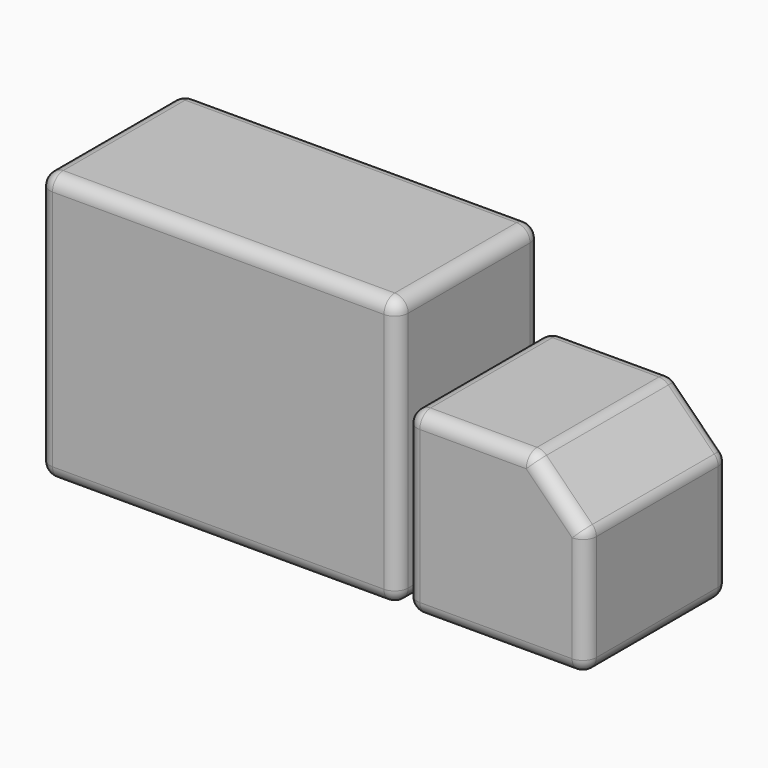
from build123d import *

# Parameters (mm, degrees)
BOX004_W               = 40
BOX004_H               = 40
BOX004_DEPTH           = 40
BOX004_PLACEMENT_ANGLE = 45
BOX003_W               = 40
BOX003_H               = 40
BOX003_DEPTH           = 40
FILLET002_R            = 3
BOX002_W               = 80
BOX002_H               = 40
BOX002_DEPTH           = 60
FILLET001_R            = 3


with BuildPart() as cube004:
    # Box004 → Box004 (new body)
    with BuildSketch(Plane.XY):
        with Locations((20, 20)):
            Rectangle(BOX004_W, BOX004_H)
    extrude(amount=BOX004_DEPTH)


with BuildPart() as cube004_1:
    # Box004 placement: moved
    add(cube004.part.moved(Location((102, 0, 41))).rotate(Axis((102, 0, 41), (0, -1, 0)), BOX004_PLACEMENT_ANGLE))


with BuildPart() as obj1:
    # Box003 → Box003 (new body)
    with BuildSketch(Plane(origin=(60, 0, 15), x_dir=(1, 0, 0), z_dir=(0, 0, 1))):
        with Locations((20, 20)):
            Rectangle(BOX003_W, BOX003_H)
    extrude(amount=BOX003_DEPTH)

    # Cut: cut Cube004
    add(cube004_1.part, mode=Mode.SUBTRACT)


with BuildPart() as obj1_1:
    # Cut placement: moved
    add(obj1.part.moved(Location((20, 0, 0))))

    # Fillet002
    fillet002_edges = [obj1_1.edges().sort_by_distance(p)[0] for p in [
        (80, 0, 35),
        (80, 20, 55),
        (80, 40, 35),
        (80, 20, 15),
        (120, 0, 29),
        (114, 0, 49),
        (94, 0, 55),
        (100, 0, 15),
        (94, 40, 55),
        (108, 20, 55),
        (120, 40, 29),
        (114, 40, 49),
        (100, 40, 15),
        (120, 20, 15),
        (120, 20, 43),
    ]]
    fillet(fillet002_edges, radius=FILLET002_R)


with BuildPart() as fusion004:
    # Box002 → Box002 (new body)
    with BuildSketch(Plane(origin=(-2, 0, 15), x_dir=(1, 0, 0), z_dir=(0, 0, 1))):
        with Locations((40, 20)):
            Rectangle(BOX002_W, BOX002_H)
    extrude(amount=BOX002_DEPTH)

    # Fillet001
    fillet001_edges = [fusion004.edges().sort_by_distance(p)[0] for p in [
        (-2, 0, 45),
        (-2, 20, 75),
        (-2, 40, 45),
        (-2, 20, 15),
        (78, 0, 45),
        (78, 20, 75),
        (78, 40, 45),
        (78, 20, 15),
        (38, 0, 15),
        (38, 0, 75),
        (38, 40, 15),
        (38, 40, 75),
    ]]
    fillet(fillet001_edges, radius=FILLET001_R)

    # Fusion004: union obj1
    add(obj1_1.part)


solid = fusion004.part
